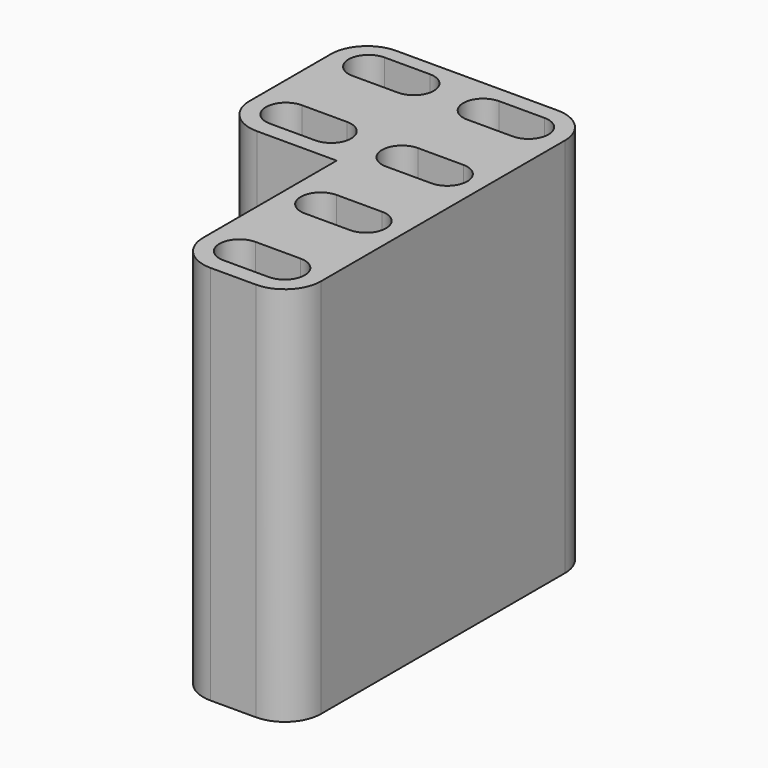
from build123d import *

# Parameters (mm, degrees)
F1_DEPTH = 21


with BuildPart() as f1:
    # F0 (on Top) → F1 (new body)
    with BuildSketch(Plane.XY):
        with BuildLine():
            Line((18.274343, -4.563208), (18.274343, 12.236792))
            ThreePointArc((18.274343, 12.236792), (17.688557, 13.651006), (16.274343, 14.236792))
            Line((16.274343, 14.236792), (7.374343, 14.236792))
            ThreePointArc((7.374343, 14.236792), (5.96013, 13.651006), (5.374343, 12.236792))
            Line((5.374343, 12.236792), (5.374343, 6.636792))
            ThreePointArc((5.374343, 6.636792), (5.96013, 5.222579), (7.374343, 4.636792))
            Line((7.374343, 4.636792), (11.774343, 4.636792))
            Line((11.774343, 4.636792), (11.774343, -4.563208))
            ThreePointArc((11.774343, -4.563208), (12.36013, -5.977421), (13.774343, -6.563208))
            Line((13.774343, -6.563208), (16.274343, -6.563208))
            ThreePointArc((16.274343, -6.563208), (17.688557, -5.977421), (18.274343, -4.563208))
        make_face()
        with BuildLine():
            Line((13.774343, -3.463208), (16.274343, -3.463208))
            ThreePointArc((16.274343, -3.463208), (17.374343, -4.563208), (16.274343, -5.663208))
            Line((16.274343, -5.663208), (13.774343, -5.663208))
            ThreePointArc((13.774343, -5.663208), (12.674343, -4.563208), (13.774343, -3.463208))
        make_face(mode=Mode.SUBTRACT)
        with BuildLine():
            Line((13.774343, 2.136792), (16.274343, 2.136792))
            ThreePointArc((16.274343, 2.136792), (17.374343, 1.036792), (16.274343, -0.063208))
            Line((16.274343, -0.063208), (13.774343, -0.063208))
            ThreePointArc((13.774343, -0.063208), (12.674343, 1.036792), (13.774343, 2.136792))
        make_face(mode=Mode.SUBTRACT)
        with BuildLine():
            ThreePointArc((9.874343, 7.736792), (10.974343, 6.636792), (9.874343, 5.536792))
            Line((9.874343, 5.536792), (7.374343, 5.536792))
            ThreePointArc((7.374343, 5.536792), (6.274343, 6.636792), (7.374343, 7.736792))
            Line((7.374343, 7.736792), (9.874343, 7.736792))
        make_face(mode=Mode.SUBTRACT)
        with BuildLine():
            ThreePointArc((7.374343, 11.236792), (6.274343, 12.336792), (7.374343, 13.436792))
            Line((7.374343, 13.436792), (9.874343, 13.436792))
            ThreePointArc((9.874343, 13.436792), (10.974343, 12.336792), (9.874343, 11.236792))
            Line((9.874343, 11.236792), (7.374343, 11.236792))
        make_face(mode=Mode.SUBTRACT)
        with BuildLine():
            Line((13.774343, 7.736792), (16.274343, 7.736792))
            ThreePointArc((16.274343, 7.736792), (17.374343, 6.636792), (16.274343, 5.536792))
            Line((16.274343, 5.536792), (13.774343, 5.536792))
            ThreePointArc((13.774343, 5.536792), (12.674343, 6.636792), (13.774343, 7.736792))
        make_face(mode=Mode.SUBTRACT)
        with BuildLine():
            Line((13.774343, 13.336792), (16.274343, 13.336792))
            ThreePointArc((16.274343, 13.336792), (17.374343, 12.236792), (16.274343, 11.136792))
            Line((16.274343, 11.136792), (13.774343, 11.136792))
            ThreePointArc((13.774343, 11.136792), (12.674343, 12.236792), (13.774343, 13.336792))
        make_face(mode=Mode.SUBTRACT)
    extrude(amount=F1_DEPTH)


solid = f1.part
